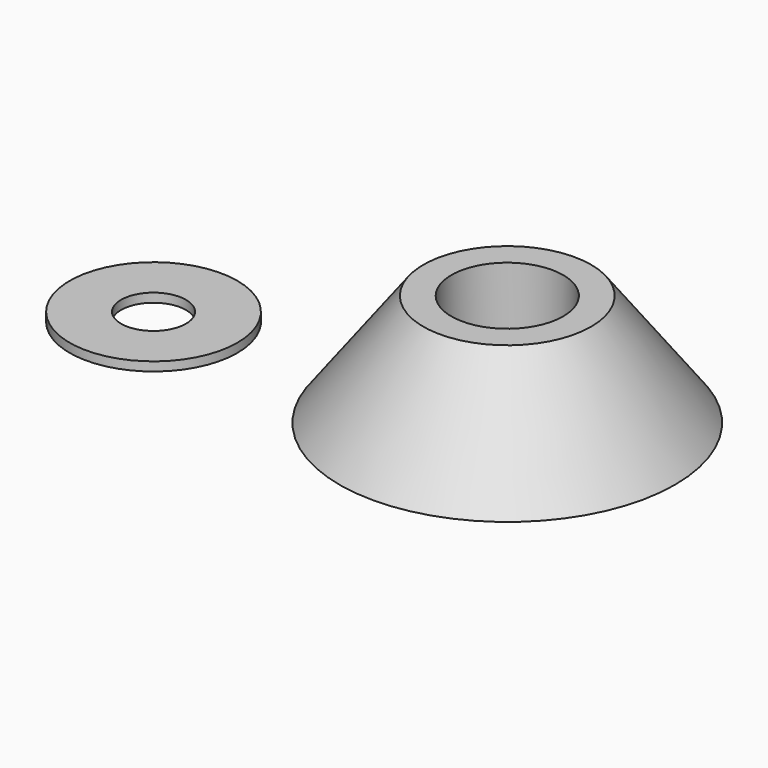
from build123d import *

# Parameters (mm, degrees)
F2_R     = 25
F3_DEPTH = 40
F4_R     = 37.5
F4_R_2   = 14.5
F5_DEPTH = 4


with BuildPart() as f1:
    # F0 (on Front) → F1 (revolve)
    with BuildSketch(Plane.XZ):
        Polygon((0, 50), (0, 0), (75, 0), (37.5, 50), align=None)
    revolve(axis=Axis((0, 0, 25), (0, 0, 1)))

    # F2 (on face) → F3 (cut)
    with BuildSketch(Plane.XY.offset(50)):
        Circle(F2_R)
    extrude(amount=-F3_DEPTH, mode=Mode.SUBTRACT)


with BuildPart() as f5:
    # F4 (on Top) → F5 (new body)
    with BuildSketch(Plane.XY):
        with Locations((-144.029602, -17.615132)):
            Circle(F4_R)
        with Locations((-144.029602, -17.615132)):
            Circle(F4_R_2, mode=Mode.SUBTRACT)
    extrude(amount=F5_DEPTH)


solid = Compound([f1.part, f5.part])
